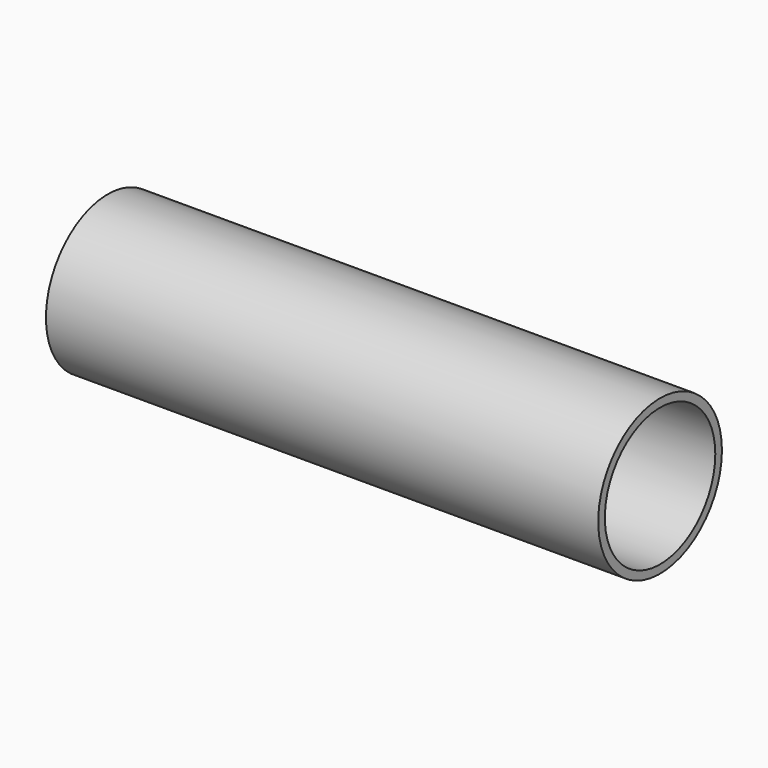
from build123d import *

# Parameters (mm, degrees)
F0_R     = 14
F1_DEPTH = 100
F2_R     = 12.5
F3_DEPTH = 25


with BuildPart() as f1:
    # F0 (on Right) → F1 (new body)
    with BuildSketch(Plane.YZ):
        Circle(F0_R)
    extrude(amount=-F1_DEPTH)

    # F2 (on Right) → F3 (cut)
    with BuildSketch(Plane.YZ):
        Circle(F2_R)
    extrude(amount=-F3_DEPTH, mode=Mode.SUBTRACT)


solid = f1.part
